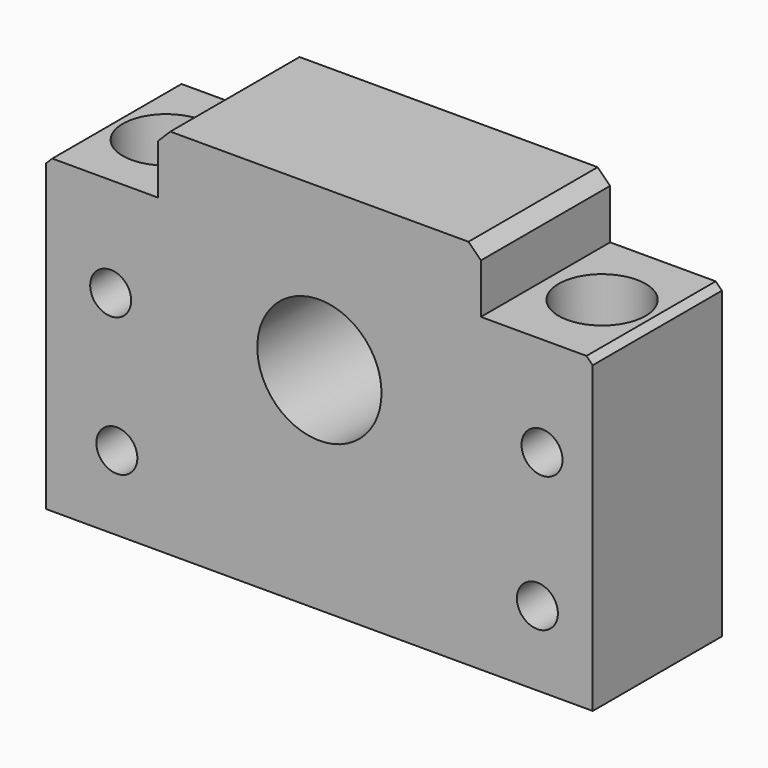
from build123d import *

# Parameters (mm, degrees)
F0_R     = 3.3
F0_R_2   = 10
F1_DEPTH = 26
F2_SIZE  = 1
F3_SIZE  = 2
F4_R     = 7
F4_R_2   = 4.5
F5_DEPTH = 8.5
F6_DEPTH = 50.001


with BuildPart() as f1:
    # F0 (on Front) → F1 (new body)
    with BuildSketch(Plane.XZ):
        Polygon((-26.441849, 23.418281), (-44.441849, 23.418281), (-44.441849, -26.581719), (43.558151, -26.581719), (43.558151, 23.418281), (25.558151, 23.418281), (25.558151, 33.418281), (-26.441849, 33.418281), align=None)
        with Locations((-33.048104, -14.581719)):
            Circle(F0_R, mode=Mode.SUBTRACT)
        with Locations((34.650207, -14.581719)):
            Circle(F0_R, mode=Mode.SUBTRACT)
        with Locations((-34.040019, 7.418281)):
            Circle(F0_R, mode=Mode.SUBTRACT)
        with Locations((-0.441849, 7.418281)):
            Circle(F0_R_2, mode=Mode.SUBTRACT)
        with Locations((35.394143, 7.418281)):
            Circle(F0_R, mode=Mode.SUBTRACT)
    extrude(amount=F1_DEPTH)

    # F2
    f2_edges = [f1.edges().sort_by_distance(p)[0] for p in [
        (-44.441849, -13, 23.418281),
        (43.558151, -13, 23.418281),
    ]]
    chamfer(f2_edges, length=F2_SIZE)

    # F3
    f3_edges = [f1.edges().sort_by_distance(p)[0] for p in [
        (-26.441849, -13, 33.418281),
        (25.558151, -13, 33.418281),
    ]]
    chamfer(f3_edges, length=F3_SIZE)

    # F4 (on face) → F5 (cut)
    with BuildSketch(Plane.XY.offset(23.418281)):
        with Locations((-35.441849, -13.069903)):
            Circle(F4_R)
        with Locations((-35.441849, -13.069903)):
            Circle(F4_R_2, mode=Mode.SUBTRACT)
        with Locations((34.558151, -12.861175)):
            Circle(F4_R)
        with Locations((34.558151, -12.861175)):
            Circle(F4_R_2, mode=Mode.SUBTRACT)
    extrude(amount=-F5_DEPTH, mode=Mode.SUBTRACT)

    # F4 (on face) → F6 (cut, through all)
    with BuildSketch(Plane.XY.offset(23.418281)):
        with Locations((-35.441849, -13.069903)):
            Circle(F4_R_2)
        with Locations((34.558151, -12.861175)):
            Circle(F4_R_2)
    extrude(amount=-F6_DEPTH, mode=Mode.SUBTRACT)


solid = f1.part
